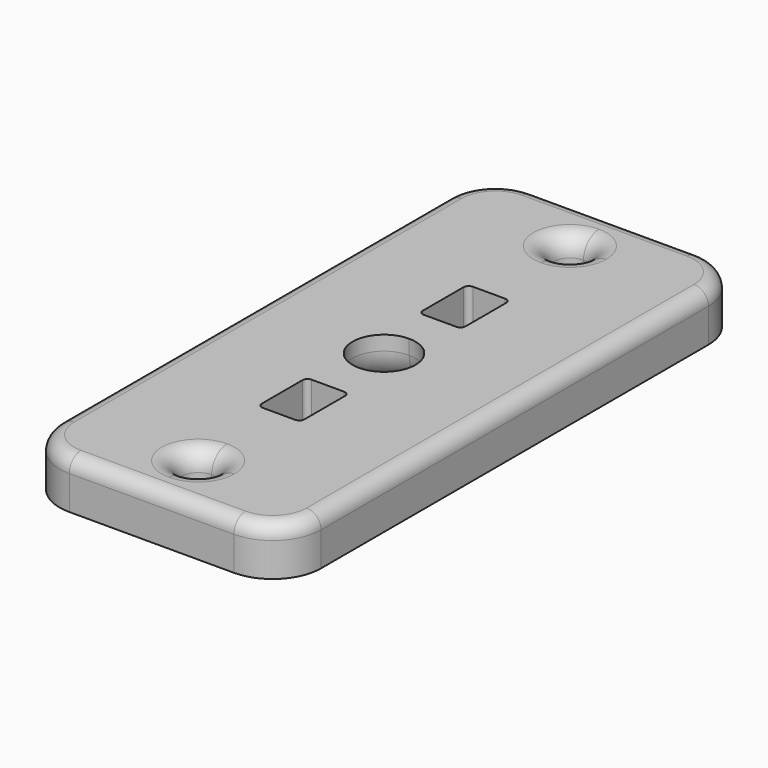
from build123d import *

# Parameters (mm, degrees)
F1_DEPTH = 5
F2_R     = 2
F3_R     = 3.5
F4_R     = 1.5


with BuildPart() as f1:
    # F0 (on Top) → F1 (new body)
    with BuildSketch(Plane.XY):
        with BuildLine():
            Line((-17.3243107274, 26.09127976), (-17.3243107274, -23.90872024))
            ThreePointArc((-17.3243107274, -23.90872024), (-15.8598446334, -27.4442541459), (-12.3243107274, -28.90872024))
            Line((-12.3243107274, -28.90872024), (-3.8243107274, -28.90872024))
            Line((-3.8243107274, -28.90872024), (-3.8243107274, -24.65872024))
            ThreePointArc((-3.8243107274, -24.65872024), (-5.5743107274, -22.90872024), (-3.8243107274, -21.15872024))
            Line((-3.8243107274, -21.15872024), (-3.8243107274, -12.45872024))
            Line((-3.8243107274, -12.45872024), (-5.4945183623, -12.45872024))
            ThreePointArc((-5.4945183623, -12.45872024), (-5.8691381363, -12.3035476489), (-6.0243107274, -11.9289278748))
            Line((-6.0243107274, -11.9289278748), (-6.0243107274, -6.6885126051))
            ThreePointArc((-6.0243107274, -6.6885126051), (-5.8691381363, -6.3138928311), (-5.4945183623, -6.15872024))
            Line((-5.4945183623, -6.15872024), (-3.8243107274, -6.15872024))
            Line((-3.8243107274, -6.15872024), (-3.8243107274, -2.15872024))
            ThreePointArc((-3.8243107274, -2.15872024), (-7.0743107274, 1.09127976), (-3.8243107274, 4.34127976))
            Line((-3.8243107274, 4.34127976), (-3.8243107274, 8.34127976))
            Line((-3.8243107274, 8.34127976), (-5.4945183623, 8.34127976))
            ThreePointArc((-5.4945183623, 8.34127976), (-5.8691381363, 8.4964523511), (-6.0243107274, 8.8710721252))
            Line((-6.0243107274, 8.8710721252), (-6.0243107274, 14.1114873949))
            ThreePointArc((-6.0243107274, 14.1114873949), (-5.8691381363, 14.4861071689), (-5.4945183623, 14.64127976))
            Line((-5.4945183623, 14.64127976), (-3.8243107274, 14.64127976))
            Line((-3.8243107274, 14.64127976), (-3.8243107274, 23.34127976))
            ThreePointArc((-3.8243107274, 23.34127976), (-5.5743107274, 25.09127976), (-3.8243107274, 26.84127976))
            Line((-3.8243107274, 26.84127976), (-3.8243107274, 31.09127976))
            Line((-3.8243107274, 31.09127976), (-12.3243107274, 31.09127976))
            ThreePointArc((-12.3243107274, 31.09127976), (-15.8598446334, 29.6268136659), (-17.3243107274, 26.09127976))
        make_face()
        with BuildLine():
            Line((-3.8243107274, -24.65872024), (-3.8243107274, -28.90872024))
            Line((-3.8243107274, -28.90872024), (4.6756892726, -28.90872024))
            ThreePointArc((4.6756892726, -28.90872024), (8.2112231785, -27.4442541459), (9.6756892726, -23.90872024))
            Line((9.6756892726, -23.90872024), (9.6756892726, 0))
            Line((9.6756892726, 0), (-0.584877345, 0.8294184204))
            ThreePointArc((-0.584877345, 0.8294184204), (-1.6207396886, -1.2976058959), (-3.8243107274, -2.15872024))
            Line((-3.8243107274, -2.15872024), (-3.8243107274, -6.15872024))
            Line((-3.8243107274, -6.15872024), (-2.1541030926, -6.15872024))
            ThreePointArc((-2.1541030926, -6.15872024), (-1.7794833185, -6.3138928311), (-1.6243107274, -6.6885126051))
            Line((-1.6243107274, -6.6885126051), (-1.6243107274, -11.9289278748))
            ThreePointArc((-1.6243107274, -11.9289278748), (-1.7794833185, -12.3035476489), (-2.1541030926, -12.45872024))
            Line((-2.1541030926, -12.45872024), (-3.8243107274, -12.45872024))
            Line((-3.8243107274, -12.45872024), (-3.8243107274, -21.15872024))
            ThreePointArc((-3.8243107274, -21.15872024), (-2.5868738603, -21.6712833729), (-2.0743107274, -22.90872024))
            ThreePointArc((-2.0743107274, -22.90872024), (-2.5868738603, -24.1461571071), (-3.8243107274, -24.65872024))
        make_face()
        with BuildLine():
            Line((4.6756892726, 31.09127976), (-3.8243107274, 31.09127976))
            Line((-3.8243107274, 31.09127976), (-3.8243107274, 26.84127976))
            ThreePointArc((-3.8243107274, 26.84127976), (-2.5868738603, 26.3287166271), (-2.0743107274, 25.09127976))
            ThreePointArc((-2.0743107274, 25.09127976), (-2.5868738603, 23.8538428929), (-3.8243107274, 23.34127976))
            Line((-3.8243107274, 23.34127976), (-3.8243107274, 14.64127976))
            Line((-3.8243107274, 14.64127976), (-2.1541030926, 14.64127976))
            ThreePointArc((-2.1541030926, 14.64127976), (-1.7794833185, 14.4861071689), (-1.6243107274, 14.1114873949))
            Line((-1.6243107274, 14.1114873949), (-1.6243107274, 8.8710721252))
            ThreePointArc((-1.6243107274, 8.8710721252), (-1.7794833185, 8.4964523511), (-2.1541030926, 8.34127976))
            Line((-2.1541030926, 8.34127976), (-3.8243107274, 8.34127976))
            Line((-3.8243107274, 8.34127976), (-3.8243107274, 4.34127976))
            ThreePointArc((-3.8243107274, 4.34127976), (-1.5262136886, 3.3893767989), (-0.5743107274, 1.09127976))
            ThreePointArc((-0.5743107274, 1.09127976), (-0.5769534563, 0.9602425377), (-0.584877345, 0.8294184204))
            Line((-0.584877345, 0.8294184204), (9.6756892726, 0))
            Line((9.6756892726, 0), (9.6756892726, 26.09127976))
            ThreePointArc((9.6756892726, 26.09127976), (8.2112231785, 29.6268136659), (4.6756892726, 31.09127976))
        make_face()
    extrude(amount=F1_DEPTH)

    # F2
    f2_edges = [f1.edges().sort_by_distance(p)[0] for p in [
        (-3.824311, -24.65872, 5),
        (-3.824311, 23.34128, 5),
    ]]
    fillet(f2_edges, radius=F2_R)

    # F3
    f3_edges = [f1.edges().sort_by_distance(p)[0] for p in [
        (-3.824311, -2.15872, 0),
    ]]
    fillet(f3_edges, radius=F3_R)

    # F4
    f4_edges = [f1.edges().sort_by_distance(p)[0] for p in [
        (-17.324311, 1.09128, 5),
    ]]
    fillet(f4_edges, radius=F4_R)


solid = f1.part
